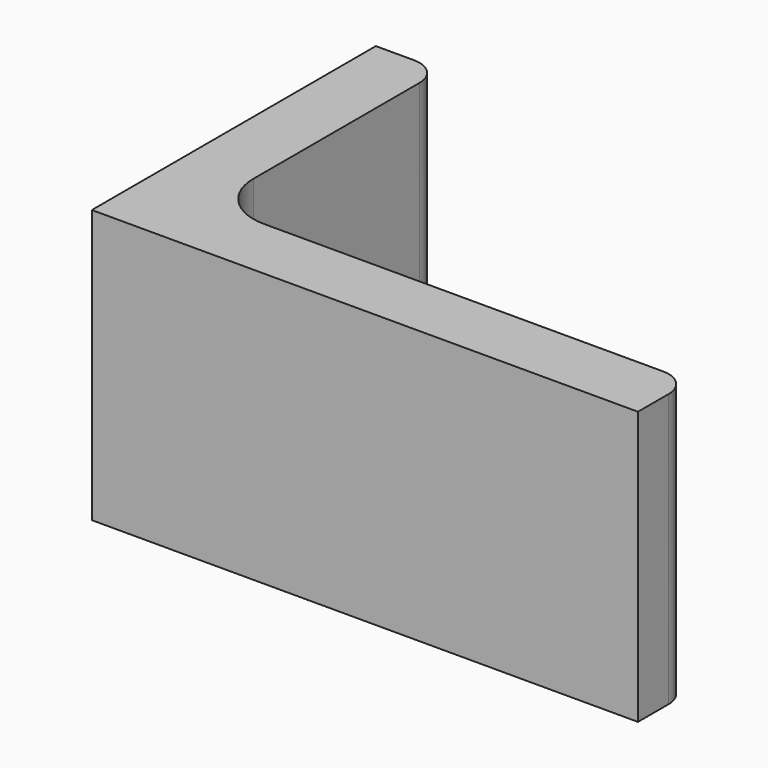
from build123d import *

# Parameters (mm, degrees)
EXTRUDE_DEPTH = 50


with BuildPart() as part:
    # Sketch → Extrude (new body)
    with BuildSketch(Plane.XY):
        with BuildLine():
            Line((0, 0), (100, 0))
            Line((100, 0), (100, 7))
            ThreePointArc((100, 7), (98.535534, 10.535534), (95, 12))
            Line((95, 12), (22, 12))
            ThreePointArc((12, 22), (14.928932, 14.928932), (22, 12))
            Line((12, 60), (12, 22))
            ThreePointArc((12, 60), (10.535534, 63.535534), (7, 65))
            Line((0, 65), (7, 65))
            Line((0, 0), (0, 65))
        make_face()
    extrude(amount=EXTRUDE_DEPTH)


solid = part.part
